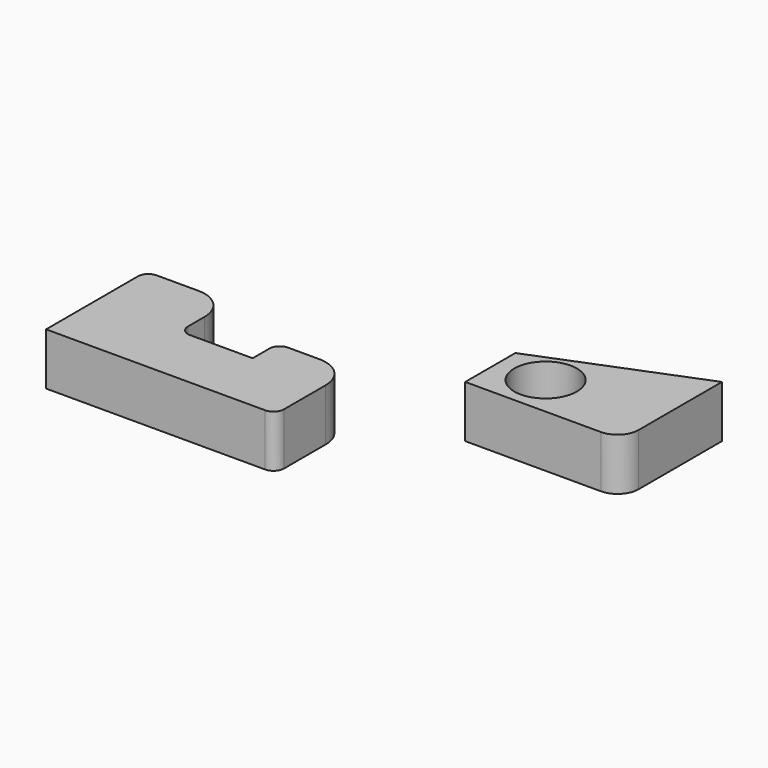
from build123d import *

# Parameters (mm, degrees)
F0_R     = 15
F1_DEPTH = 25


with BuildPart() as f1:
    # F0 (on Top) → F1 (new body)
    with BuildSketch(Plane.XY):
        with BuildLine():
            Line((161.765267, 60.159492), (86.765267, 30.159492))
            Line((86.765267, 30.159492), (86.765267, 0.159492))
            Line((86.765267, 0.159492), (151.765267, 0.159492))
            ThreePointArc((151.765267, 0.159492), (158.836335, 3.088424), (161.765267, 10.159492))
            Line((161.765267, 10.159492), (161.765267, 60.159492))
        make_face()
        with Locations((109.265267, 20.159492)):
            Circle(F0_R, mode=Mode.SUBTRACT)
        with BuildLine():
            Line((-62.33871, -9.540701), (-62.33871, -64.540701))
            Line((-62.33871, -64.540701), (42.66129, -64.540701))
            ThreePointArc((42.66129, -64.540701), (46.196824, -63.076235), (47.66129, -59.540701))
            Line((47.66129, -59.540701), (47.66129, -34.540701))
            ThreePointArc((47.66129, -34.540701), (43.267892, -23.934099), (32.66129, -19.540701))
            Line((32.66129, -19.540701), (17.66129, -19.540701))
            ThreePointArc((17.66129, -19.540701), (14.125756, -21.005167), (12.66129, -24.540701))
            Line((12.66129, -24.540701), (12.66129, -34.540701))
            Line((12.66129, -34.540701), (-17.33871, -34.540701))
            ThreePointArc((-17.33871, -34.540701), (-20.874244, -33.076235), (-22.33871, -29.540701))
            Line((-22.33871, -29.540701), (-22.33871, -19.540701))
            ThreePointArc((-22.33871, -19.540701), (-26.732108, -8.934099), (-37.33871, -4.540701))
            Line((-37.33871, -4.540701), (-57.33871, -4.540701))
            ThreePointArc((-57.33871, -4.540701), (-60.874244, -6.005167), (-62.33871, -9.540701))
        make_face()
    extrude(amount=F1_DEPTH)


solid = f1.part
